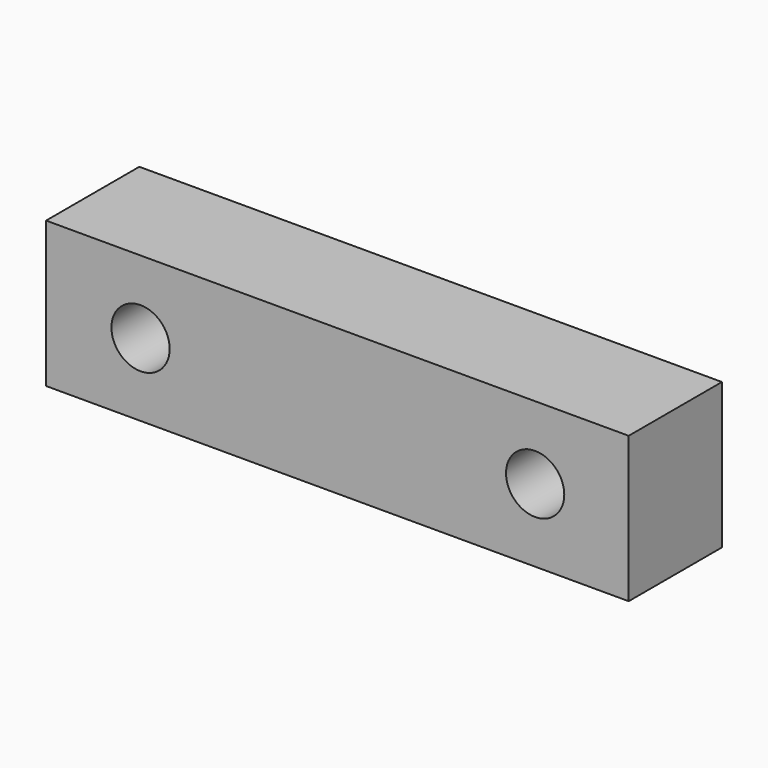
from build123d import *

# Parameters (mm, degrees)
F0_W     = 50.8
F0_H     = 12.7
F0_R     = 2.54
F1_DEPTH = 5.08


with BuildPart() as f1:
    # F0 (on Front) → F1 (new body, symmetric)
    with BuildSketch(Plane.XZ):
        Rectangle(F0_W, F0_H)
        with Locations((-17.162632, 0)):
            Circle(F0_R, mode=Mode.SUBTRACT)
        with Locations((17.241809, 0)):
            Circle(F0_R, mode=Mode.SUBTRACT)
    extrude(amount=F1_DEPTH, both=True)


solid = f1.part
